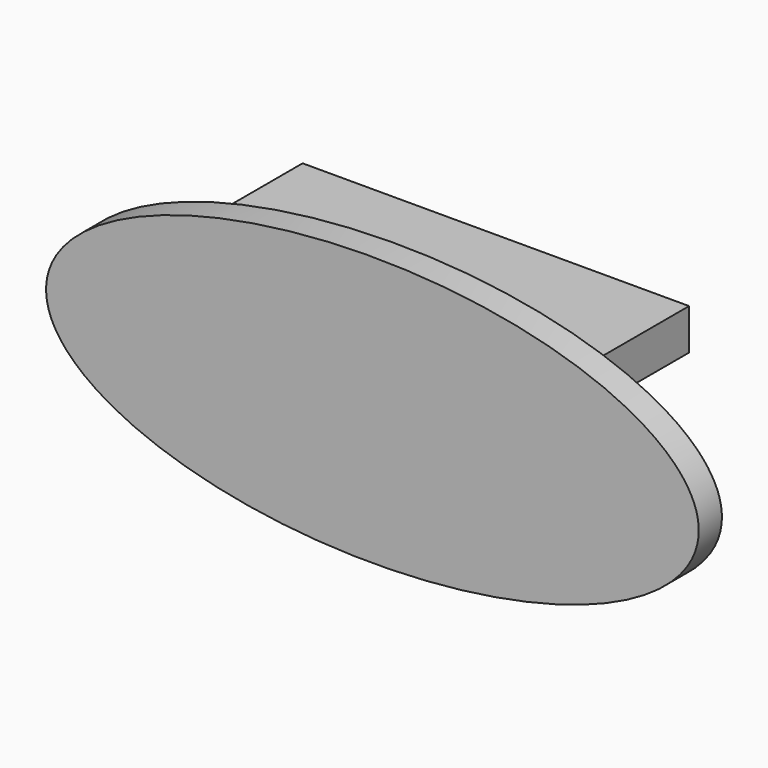
from build123d import *

# Parameters (mm, degrees)
F1_DEPTH = 12.7
F3_DEPTH = 3


with BuildPart() as f1:
    # F0 (on Front) → F1 (new body)
    with BuildSketch(Plane.XZ):
        Polygon((0, 6.017422), (0, 0), (40, 0), (40, 6.017422), (25.775404, 6.017422), (25.775404, 15.758744), (40, 15.758744), (40, 20), (0, 20), (0, 15.758744), (17.668896, 15.758744), (17.668896, 6.017422), align=None)
    extrude(amount=-F1_DEPTH)

    # F2 (on Front) → F3 (join)
    with BuildSketch(Plane.XZ):
        with BuildLine():
            add(Edge.make_bspline(
                [(53.559098, 10.344066), (53.559098, 34.510571), (2.89702, 22.427318), (-47.765058, 10.344066), (2.89702, -1.739187), (53.559098, -13.822439), (53.559098, 10.344066)],
                knots=[0, 0, 0, 2.094395, 2.094395, 4.18879, 4.18879, 6.283185, 6.283185, 6.283185], degree=2, weights=[1, 0.5, 1, 0.5, 1, 0.5, 1]))
        make_face()
    extrude(amount=F3_DEPTH)


solid = f1.part
